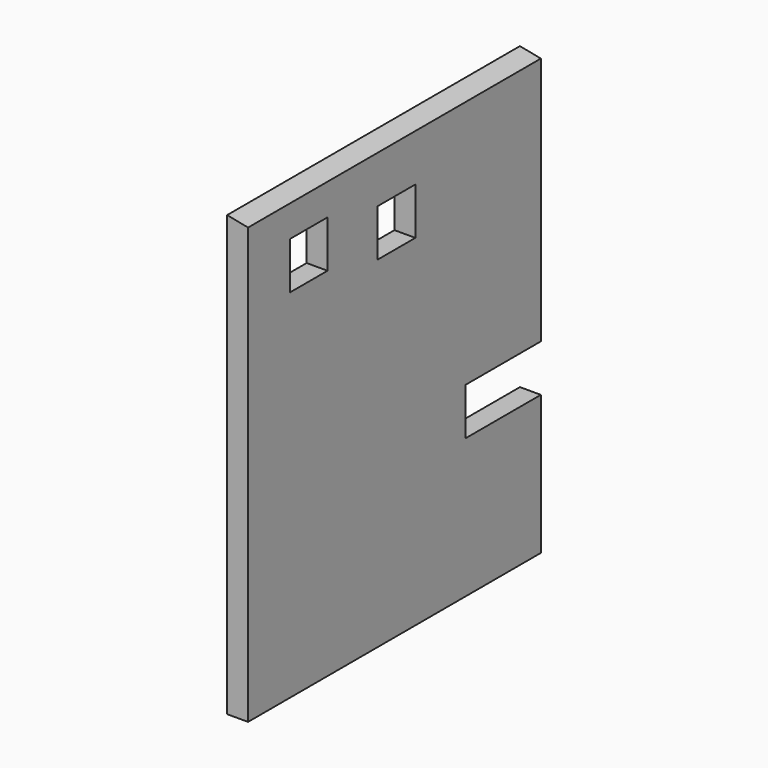
from build123d import *

# Parameters (mm, degrees)
F0_W     = 3556
F0_H     = 4707.636
F1_DEPTH = 203.2
F3_DEPTH = 3556
F4_W     = 914.4
F4_H     = 457.2
F5_DEPTH = 203.2
F6_W     = 457.2
F6_H     = 457.2
F7_DEPTH = 203.2
F9_DEPTH = 203.2


with BuildPart() as f1:
    # F0 (on Right) → F1 (new body)
    with BuildSketch(Plane.YZ):
        with Locations((2.413105, 0)):
            Rectangle(F0_W, F0_H)
    extrude(amount=F1_DEPTH)

    # F2 (on face) → F3 (cut)
    with BuildSketch(Plane.XZ.offset(1775.586895)):
        Polygon((0, 1915.80375), (203.2, 1875.282), (203.2, 2353.818), (0, 2353.818), align=None)
    extrude(amount=-F3_DEPTH, mode=Mode.SUBTRACT)

    # F4 (on face) → F5 (cut)
    with BuildSketch(Plane(origin=(0, 0, 0), x_dir=(0, -1, 0), z_dir=(-1, 0, 0))):
        with Locations((-1323.213105, -772.668)):
            Rectangle(F4_W, F4_H)
    extrude(amount=-F5_DEPTH, mode=Mode.SUBTRACT)

    # F6 (on face) → F7 (cut)
    with BuildSketch(Plane.YZ.offset(203.2)):
        with Locations((-1038.986895, 1341.882)):
            Rectangle(F6_W, F6_H)
    extrude(amount=-F7_DEPTH, mode=Mode.SUBTRACT)

    # F8 (on face) → F9 (cut)
    with BuildSketch(Plane.YZ.offset(203.2)):
        Polygon((-200.786895, 1418.082), (-200.786895, 1113.282), (-200.786895, 960.882), (256.413105, 960.882), (256.413105, 1418.082), align=None)
    extrude(amount=-F9_DEPTH, mode=Mode.SUBTRACT)


solid = f1.part
